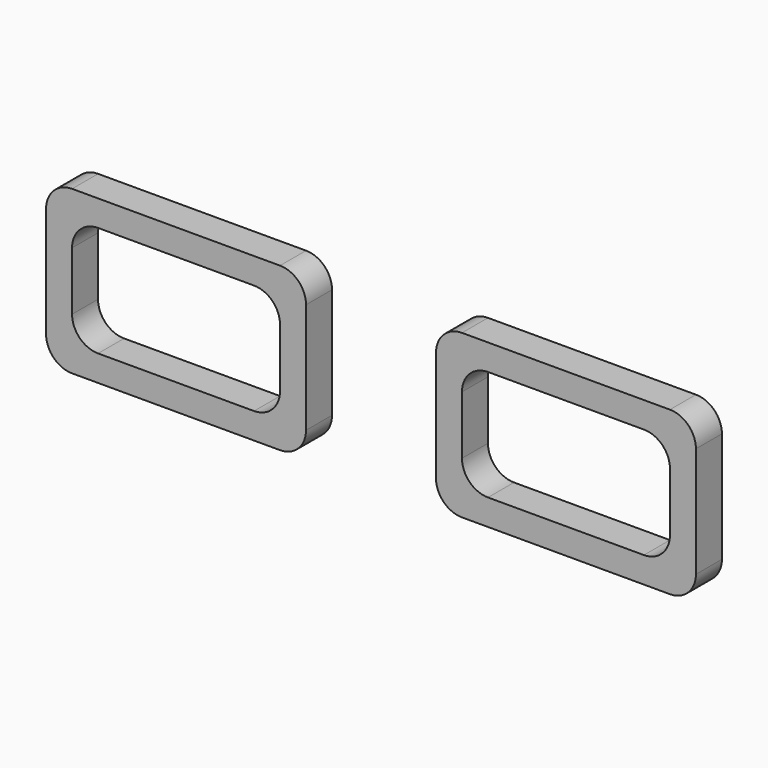
from build123d import *

# Parameters (mm, degrees)
F0_W     = 50.8
F0_H     = 31.75
F1_DEPTH = 3.175
F2_R     = 5.08
F3_W     = 40.64
F3_H     = 21.59
F4_DEPTH = 25.4
F5_R     = 5.08
F6_W     = 40.64
F6_H     = 21.59
F7_DEPTH = 25.4
F8_R     = 5.08


with BuildPart() as f1:
    # F0 (on Front) → F1 (new body, symmetric)
    with BuildSketch(Plane.XZ):
        with Locations((-48.464361, 21.425134)):
            Rectangle(F0_W, F0_H)
        with Locations((27.735639, 21.425134)):
            Rectangle(F0_W, F0_H)
    extrude(amount=F1_DEPTH, both=True)

    # F2
    f2_edges = [f1.edges().sort_by_distance(p)[0] for p in [
        (-73.864361, 0, 37.300134),
        (-73.864361, 0, 5.550134),
        (-23.064361, 0, 5.550134),
        (-23.064361, 0, 37.300134),
        (2.335639, 0, 37.300134),
        (53.135639, 0, 37.300134),
        (53.135639, 0, 5.550134),
        (2.335639, 0, 5.550134),
    ]]
    fillet(f2_edges, radius=F2_R)

    # F3 (on face) → F4 (cut)
    with BuildSketch(Plane.XZ.offset(3.175)):
        with Locations((-48.464361, 21.425134)):
            Rectangle(F3_W, F3_H)
    extrude(amount=-F4_DEPTH, mode=Mode.SUBTRACT)

    # F5
    f5_edges = [f1.edges().sort_by_distance(p)[0] for p in [
        (-28.144361, 0, 32.220134),
        (-68.784361, 0, 10.630134),
        (-68.784361, 0, 32.220134),
        (-28.144361, 0, 10.630134),
    ]]
    fillet(f5_edges, radius=F5_R)

    # F6 (on face) → F7 (cut)
    with BuildSketch(Plane.XZ.offset(3.175)):
        with Locations((27.735639, 21.425134)):
            Rectangle(F6_W, F6_H)
    extrude(amount=-F7_DEPTH, mode=Mode.SUBTRACT)

    # F8
    f8_edges = [f1.edges().sort_by_distance(p)[0] for p in [
        (48.055639, 0, 10.630134),
        (7.415639, 0, 10.630134),
        (7.415639, 0, 32.220134),
        (48.055639, 0, 32.220134),
    ]]
    fillet(f8_edges, radius=F8_R)


solid = f1.part
